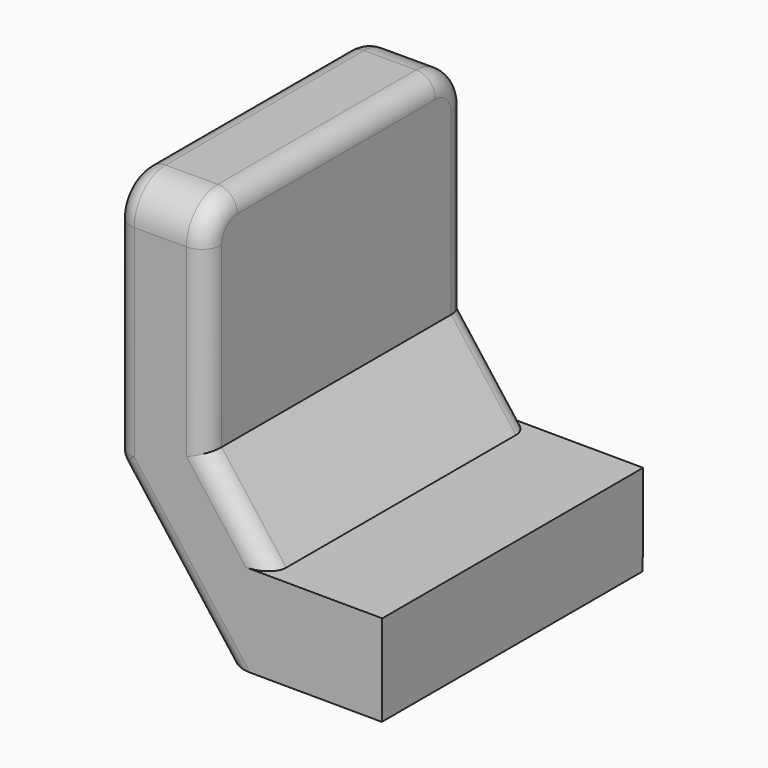
from build123d import *

# Parameters (mm, degrees)
F1_DEPTH = 50
F2_R     = 6
F3_R     = 3


with BuildPart() as f1:
    # F0 (on Front) → F1 (new body)
    with BuildSketch(Plane.XZ):
        Polygon((-49.764752, 26.852785), (-63.764751, 26.852785), (-63.764751, -11.147215), (-46.805562, -33.426935), (-22.805792, -33.532045), (-22.744477, -19.532181), (-39.844699, -19.457288), (-49.764752, -6.42506), align=None)
    extrude(amount=F1_DEPTH)

    # F2
    f2_edges = [f1.edges().sort_by_distance(p)[0] for p in [
        (-56.764752, -50, 26.852785),
        (-56.764752, 0, 26.852785),
    ]]
    fillet(f2_edges, radius=F2_R)

    # F3
    f3_edges = [f1.edges().sort_by_distance(p)[0] for p in [
        (-63.764751, -25, -11.147215),
        (-63.764751, -50, 4.852785),
        (-55.285157, -50, -22.287075),
        (-44.804725, -50, -12.941174),
        (-49.764752, -50, 7.213862),
        (-46.805562, -25, -33.426935),
        (-55.285157, 0, -22.287075),
        (-44.804725, 0, -12.941174),
    ]]
    fillet(f3_edges, radius=F3_R)


solid = f1.part
